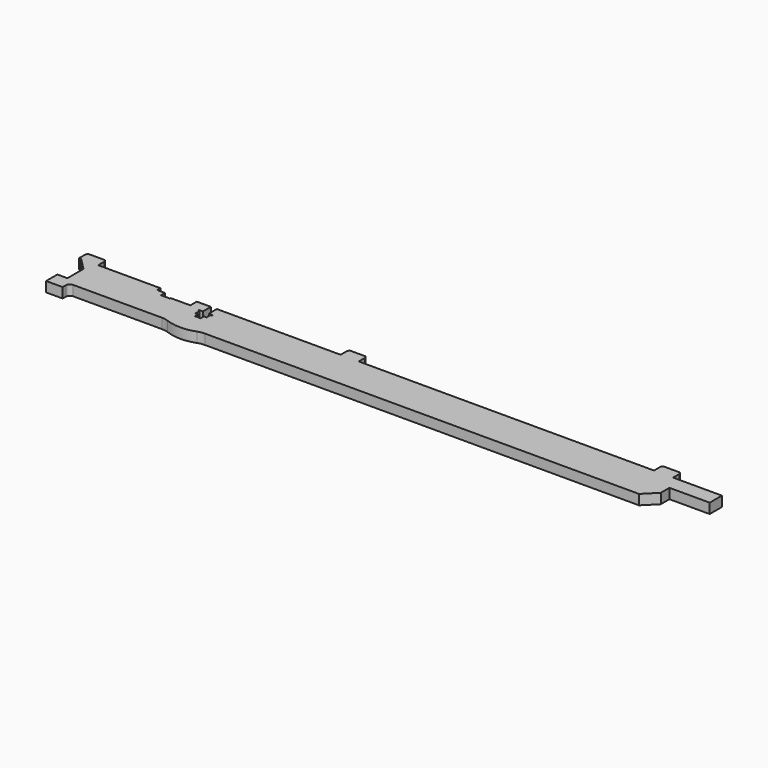
from build123d import *

# Parameters (mm, degrees)
PAD_DEPTH = 5


with BuildPart() as part:
    # Sketch059 → Pad (new body)
    with BuildSketch(Plane.XY):
        with BuildLine():
            Line((-4.25, 11.6), (-4.82735, 12.6))
            Line((-4.82735, 12.6), (-13.17265, 12.6))
            Line((-13.17265, 12.6), (-13.75, 11.6))
            Line((-13.75, 11.6), (-13.75, 7.6))
            Line((-13.75, 7.6), (-160.5, 7.6))
            Line((-160.5, 7.6), (-160.5, 11.6))
            Line((-160.5, 11.6), (-161.07735, 12.6))
            Line((-161.07735, 12.6), (-168.92265, 12.6))
            Line((-168.92265, 12.6), (-169.5, 11.6))
            Line((-169.5, 11.6), (-169.5, 7.6))
            Line((-169.5, 7.6), (-231.02, 7.6))
            Line((-231.02, 7.6), (-231.02, 2.6))
            Line((-231.02, 2.6), (-229, 2.6))
            Line((-229, 2.6), (-229, 2.1))
            Line((-229, 2.1), (-229.75, 2.1))
            Line((-229.75, 2.1), (-229.75, -0.4))
            Line((-229.75, -0.4), (-231.02, -0.4))
            Line((-231.02, -0.4), (-231.02, -2.4))
            Line((-231.02, -2.4), (-233.98, -2.4))
            Line((-233.98, -2.4), (-233.98, -0.4))
            Line((-233.98, -0.4), (-235.25, -0.4))
            Line((-235.25, -0.4), (-235.25, 2.1))
            Line((-235.25, 2.1), (-236, 2.1))
            Line((-236, 2.1), (-236, 2.6))
            Line((-236, 2.6), (-233.98, 2.6))
            Line((-233.98, 2.6), (-233.98, 7.6))
            Line((-233.98, 7.6), (-241, 7.6))
            Line((-241, 7.6), (-241, 3.6))
            Line((-241, 3.6), (-250.8, 3.6))
            Line((-250.8, 3.6), (-250.8, 3.1))
            Line((-250.8, 3.1), (-255.2, 3.1))
            Line((-255.2, 3.1), (-255.2, 5.6))
            Line((-255.2, 5.6), (-259.093151, 5.6))
            Line((-259.093151, 5.6), (-259.093151, 7.6))
            Line((-259.093151, 7.6), (-290, 7.6))
            Line((-290, 7.6), (-290, 11.6))
            Line((-290, 11.6), (-290.57735, 12.6))
            Line((-290.57735, 12.6), (-298.92265, 12.6))
            Line((-298.92265, 12.6), (-299.5, 11.6))
            Line((-299.5, 11.6), (-299.5, 7.6))
            Line((-299.5, 7.6), (-298.5, 7.6))
            Line((-298.5, 7.6), (-292.5, 1.6))
            Line((-292.5, 1.6), (-292.5, -8.4))
            Line((-292.5, -8.4), (-297.5, -8.4))
            Line((-297.5, -8.4), (-297.5, -15.4))
            Line((-289.270832, -15.4), (-297.5, -15.4))
            Line((-289.270832, -13.4), (-289.270832, -15.4))
            ThreePointArc((-287.270832, -11.4), (-288.685046, -11.985786), (-289.270832, -13.4))
            Line((-287.270832, -11.4), (-243.200536, -11.4))
            ThreePointArc((-239.738833, -12.018283), (-241.442294, -11.555784), (-243.200536, -11.4))
            ThreePointArc((-239.738833, -12.018283), (-232.5, -13.311187), (-225.261167, -12.018283))
            ThreePointArc((-221.799464, -11.4), (-223.557706, -11.555784), (-225.261167, -12.018283))
            Line((-221.799464, -11.4), (-6, -11.4))
            Line((-6, -11.4), (0, -5.4))
            Line((0, -5.4), (0, 0))
            Line((0, 0), (20, 0))
            Line((20, 0), (20, 7.6))
            Line((20, 7.6), (-4.25, 7.6))
            Line((-4.25, 7.6), (-4.25, 11.6))
        make_face()
    extrude(amount=PAD_DEPTH)


solid = part.part
